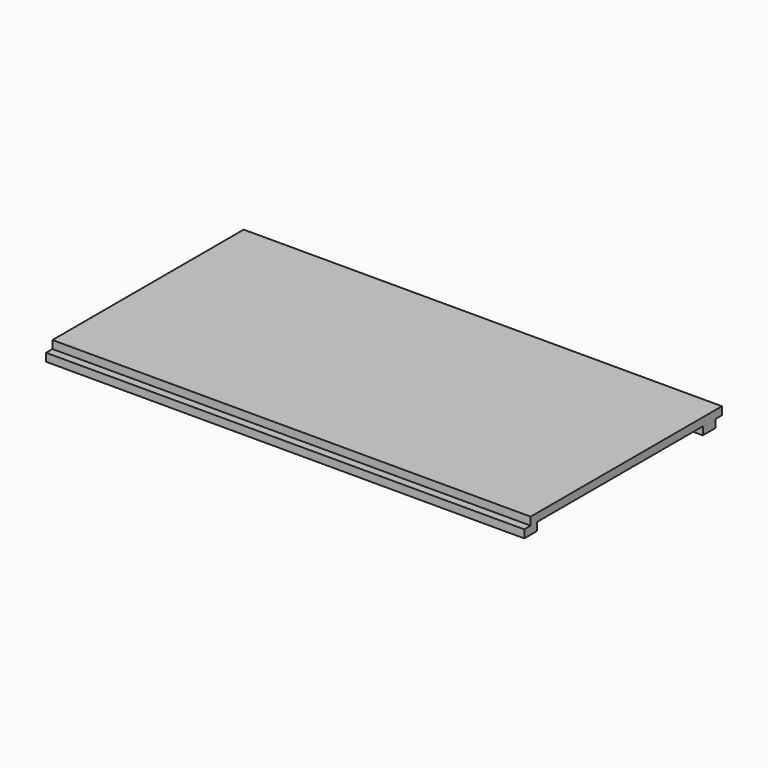
from build123d import *

# Parameters (mm, degrees)
F0_W     = 600
F0_H     = 300
F1_DEPTH = 10
F2_W     = 600
F2_H     = 10
F2_H_2   = 20
F3_DEPTH = 10


with BuildPart() as f1:
    # F0 (on Top) → F1 (new body)
    with BuildSketch(Plane.XY):
        Rectangle(F0_W, F0_H)
    extrude(amount=F1_DEPTH)

    # F2 (on face) → F3 (join)
    with BuildSketch(Plane.XY):
        with Locations((0, -145)):
            Rectangle(F2_W, F2_H)
        with Locations((0, -155)):
            Rectangle(F2_W, F2_H)
        with Locations((0, 130)):
            Rectangle(F2_W, F2_H_2)
    extrude(amount=-F3_DEPTH)


solid = f1.part
